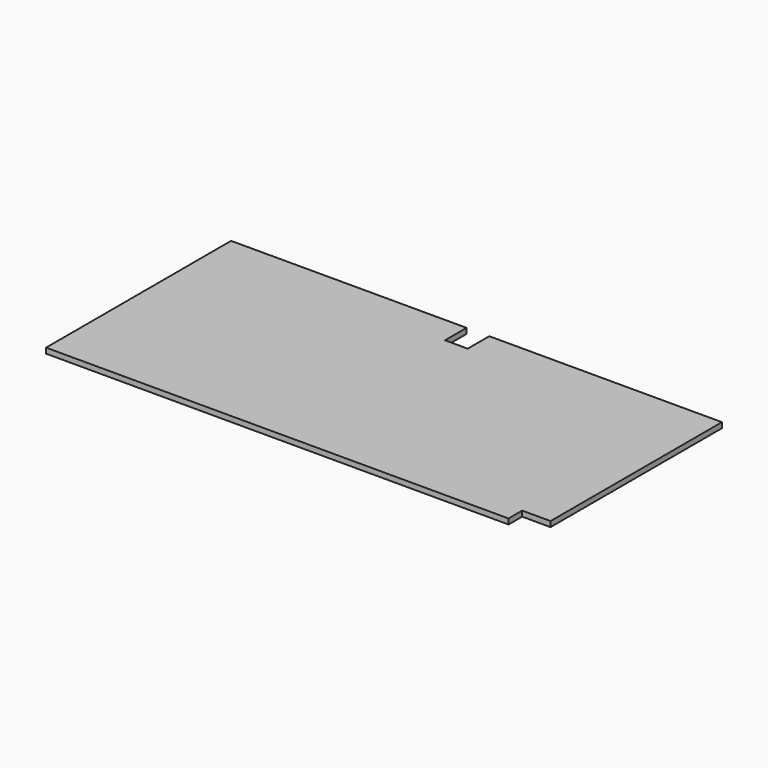
from build123d import *

# Parameters (mm, degrees)
EXTRUDE_DEPTH = 5.9944


with BuildPart() as part:
    # Sketch → Extrude (new body)
    with BuildSketch(Plane.XY):
        Polygon((0, 0), (263.525, 0), (263.525, -30.1752), (288.925, -30.1752), (288.925, 0), (549.275, 0), (549.275, -239.7252), (517.525, -239.7252), (517.525, -258.7752), (0, -258.7752), align=None)
    extrude(amount=EXTRUDE_DEPTH)


solid = part.part
